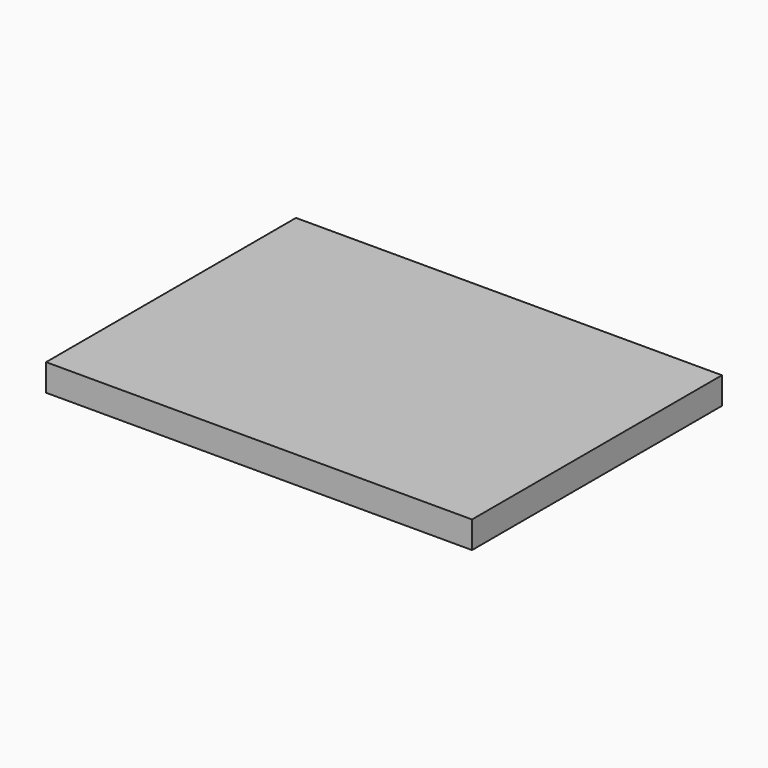
from build123d import *

# Parameters (mm, degrees)
F0_W     = 300
F0_H     = 220
F1_DEPTH = 19
F3_D     = 3.3
F3_DEPTH = 5
F3_TIP   = 0.9914200214


with BuildPart() as f1:
    # F0 (on Top) → F1 (new body)
    with BuildSketch(Plane.XY):
        with Locations((150, 110)):
            Rectangle(F0_W, F0_H)
    extrude(amount=F1_DEPTH)

    # F3
    with Locations(Plane(origin=(0, 0, 0), x_dir=(1, 0, 0), z_dir=(0, 0, -1))):
        with Locations((25, -25), (25, -195), (275, -195), (275, -25)):
            Hole(F3_D / 2, depth=F3_DEPTH)
            with Locations((0, 0, -(F3_DEPTH + F3_TIP / 2))):  # 118° drill point
                Cone(0, F3_D / 2, F3_TIP, mode=Mode.SUBTRACT)


solid = f1.part
